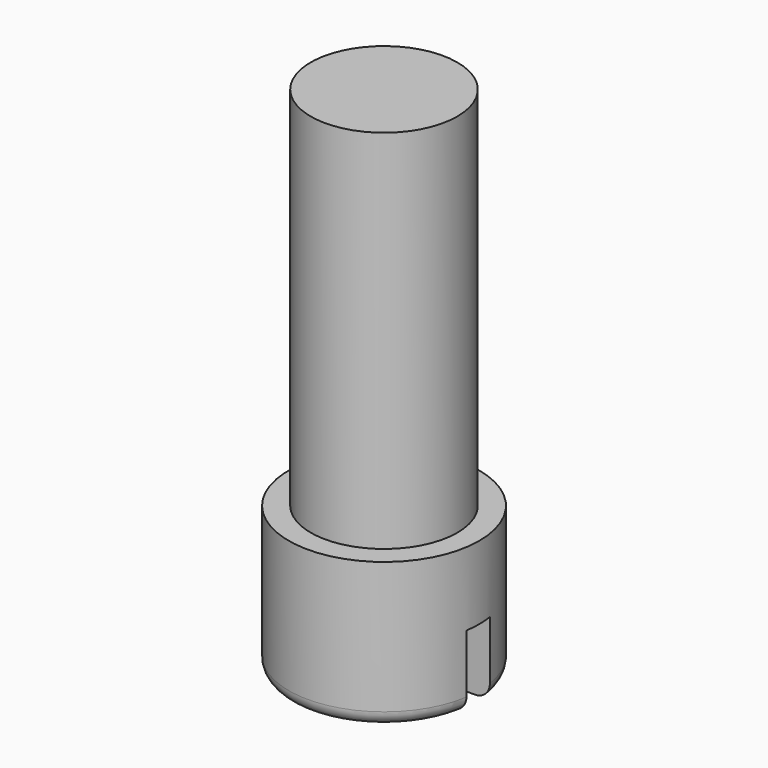
from build123d import *

# Parameters (mm, degrees)
F0_R     = 50
F1_DEPTH = 350
F0_R_2   = 65
F2_DEPTH = 100
F3_R     = 10
F4_W     = 20
F4_H     = 53.732174
F5_DEPTH = 150


with BuildPart() as f1:
    # F0 (on Top) → F1 (new body)
    with BuildSketch(Plane.XY):
        Circle(F0_R)
    extrude(amount=F1_DEPTH)

    # F0 (on Top) → F2 (join)
    with BuildSketch(Plane.XY):
        Circle(F0_R_2)
        Circle(F0_R, mode=Mode.SUBTRACT)
    extrude(amount=F2_DEPTH)

    # F3
    f3_edges = [f1.edges().sort_by_distance(p)[0] for p in [
        (-65, 0, 0),
    ]]
    fillet(f3_edges, radius=F3_R)

    # F4 (on Right) → F5 (cut, symmetric)
    with BuildSketch(Plane.YZ):
        with Locations((0, 23.133913)):
            Rectangle(F4_W, F4_H)
    extrude(amount=F5_DEPTH, both=True, mode=Mode.SUBTRACT)


solid = f1.part
